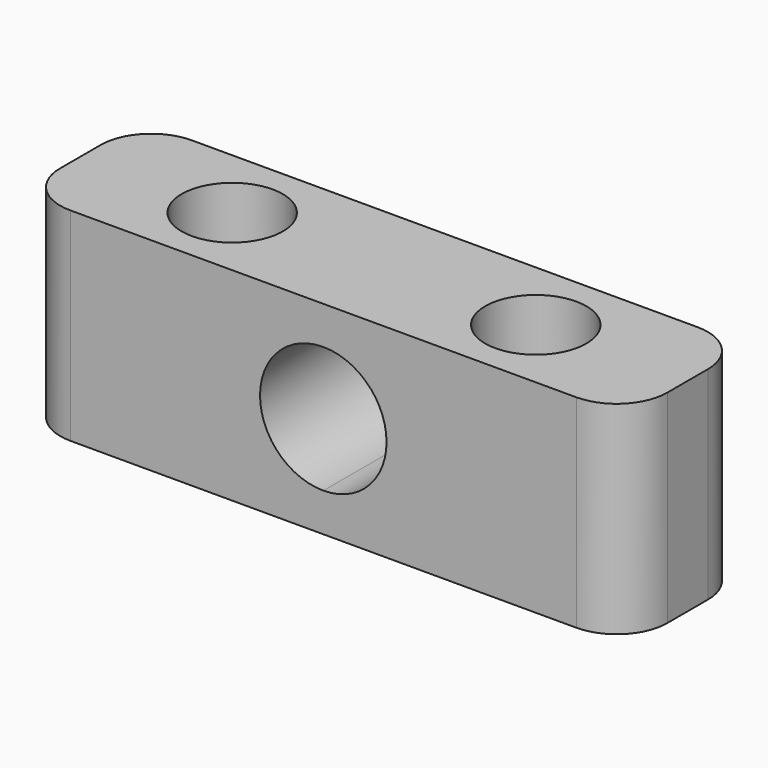
from build123d import *

# Parameters (mm, degrees)
F1_DEPTH = 38.1
F2_R     = 12.7
F3_DEPTH = 50.9263650248
F4_ANGLE = 90
F5_R     = 12.7


with BuildPart() as f1:
    # F0 (on Top) → F1 (new body)
    with BuildSketch(Plane.XY):
        with BuildLine():
            ThreePointArc((0, 15.875), (11.2253201513, 11.2253201513), (15.875, 0))
            ThreePointArc((15.875, 0), (11.2253201513, -11.2253201513), (0, -15.875))
            Line((0, -15.875), (0, -25.5253650248))
            Line((0, -25.5253650248), (76.2, -25.5253650248))
            Line((76.2, -25.5253650248), (76.2, 25.4))
            Line((76.2, 25.4), (0, 25.4))
            Line((0, 25.4), (0, 15.875))
        make_face()
        with BuildLine():
            ThreePointArc((0, -15.875), (-15.875, 0), (0, 15.875))
            Line((0, 15.875), (0, 25.4))
            Line((0, 25.4), (-76.2, 25.4))
            Line((-76.2, 25.4), (-76.2, -25.5253650248))
            Line((-76.2, -25.5253650248), (0, -25.5253650248))
            Line((0, -25.5253650248), (0, -15.875))
        make_face()
    extrude(amount=F1_DEPTH)

    # F2 (on face) → F3 (cut, through all)
    with BuildSketch(Plane(origin=(0, 25.4, 0), x_dir=(-1, 0, 0), z_dir=(0, 1, 0))):
        with Locations((-38.1, 19.05)):
            Circle(F2_R)
        with Locations((38.1, 19.05)):
            Circle(F2_R)
    extrude(amount=-F3_DEPTH, mode=Mode.SUBTRACT)


with BuildPart() as f1_1:
    # F4: moved
    add(f1.part.rotate(Axis((0, -25.5253650248, 38.1), (1, 0, 0)), F4_ANGLE))

    # F5
    f5_edges = [f1_1.edges().sort_by_distance(p)[0] for p in [
        (76.2, -25.525365, 63.562683),
        (76.2, 12.574635, 63.562683),
        (-76.2, -25.525365, 63.562683),
        (-76.2, 12.574635, 63.562683),
    ]]
    fillet(f5_edges, radius=F5_R)


with BuildPart() as f6_1:
    # F6: copy of F1
    add(f1_1.part.moved(Location((0, 0, 70.31364))))


solid = f1_1.part
